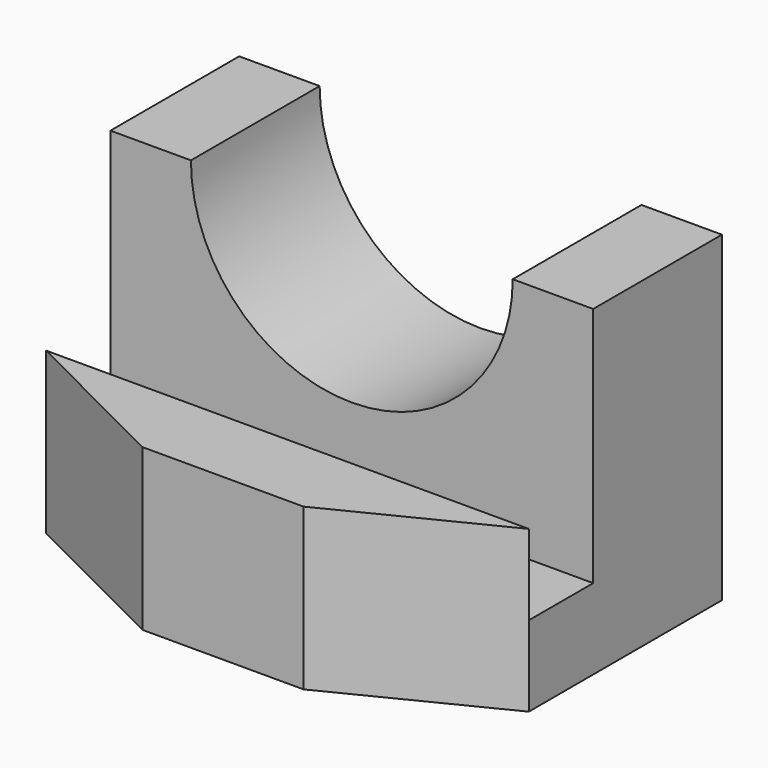
from build123d import *

# Parameters (mm, degrees)
F0_W     = 60
F0_H     = 20
F1_DEPTH = 40
F2_W     = 10
F2_H     = 20
F3_DEPTH = 84.74165
F5_DEPTH = 25


with BuildPart() as f1:
    # F0 (on Top) → F1 (new body)
    with BuildSketch(Plane.XY):
        with Locations((30, -10)):
            Rectangle(F0_W, F0_H)
        Polygon((60, -20), (0, -20), (0, -30), (20, -40), (40, -40), (60, -30), align=None)
    extrude(amount=F1_DEPTH)

    # F2 (on Right) → F3 (cut)
    with BuildSketch(Plane.YZ):
        Polygon((-20, 10), (-20, 40), (-30, 40), (-30, 20), (-30, 10), align=None)
        with Locations((-35, 30)):
            Rectangle(F2_W, F2_H)
    extrude(amount=F3_DEPTH, mode=Mode.SUBTRACT)

    # F4 (on Front) → F5 (cut)
    with BuildSketch(Plane.XZ):
        with BuildLine():
            ThreePointArc((10, 40), (30, 20), (50, 40))
            Line((50, 40), (10, 40))
        make_face()
    extrude(amount=F5_DEPTH, mode=Mode.SUBTRACT)


solid = f1.part
